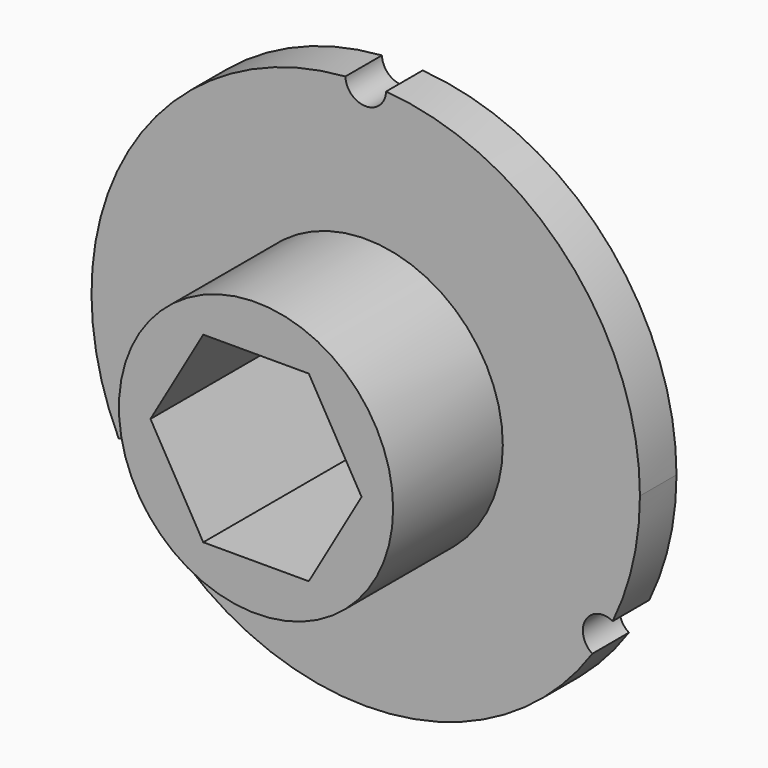
from build123d import *

# Parameters (mm, degrees)
F0_R     = 3
F1_DEPTH = 1
F2_DEPTH = 4


with BuildPart() as f1:
    # F0 (on Front) → F1 (new body)
    with BuildSketch(Plane.XZ):
        with BuildLine():
            ThreePointArc((5.404533, -2.605959), (5.849239, -1.336563), (6, 0))
            ThreePointArc((6, 0), (4.397308, 4.082117), (0.44544, 5.983442))
            ThreePointArc((0.44544, 5.983442), (0, 5.554253), (-0.44544, 5.983442))
            ThreePointArc((-0.44544, 5.983442), (-5.196152, 3), (-5.404533, -2.605959))
            ThreePointArc((-5.404533, -2.605959), (-4.966146, -2.618178), (-4.750405, -3))
            ThreePointArc((-4.750405, -3), (-4.80605, -3.215664), (-4.959093, -3.377483))
            ThreePointArc((-4.959093, -3.377483), (0, -6), (4.959093, -3.377483))
            ThreePointArc((4.959093, -3.377483), (4.810124, -2.777126), (5.404533, -2.605959))
        make_face()
        Circle(F0_R, mode=Mode.SUBTRACT)
    extrude(amount=F1_DEPTH)

    # F0 (on Front) → F2 (join)
    with BuildSketch(Plane.XZ):
        Circle(F0_R)
        Polygon((-2.309401, 0), (-1.154701, 2), (1.154701, 2), (2.309401, 0), (1.154701, -2), (-1.154701, -2), align=None, mode=Mode.SUBTRACT)
    extrude(amount=F2_DEPTH)


solid = f1.part
